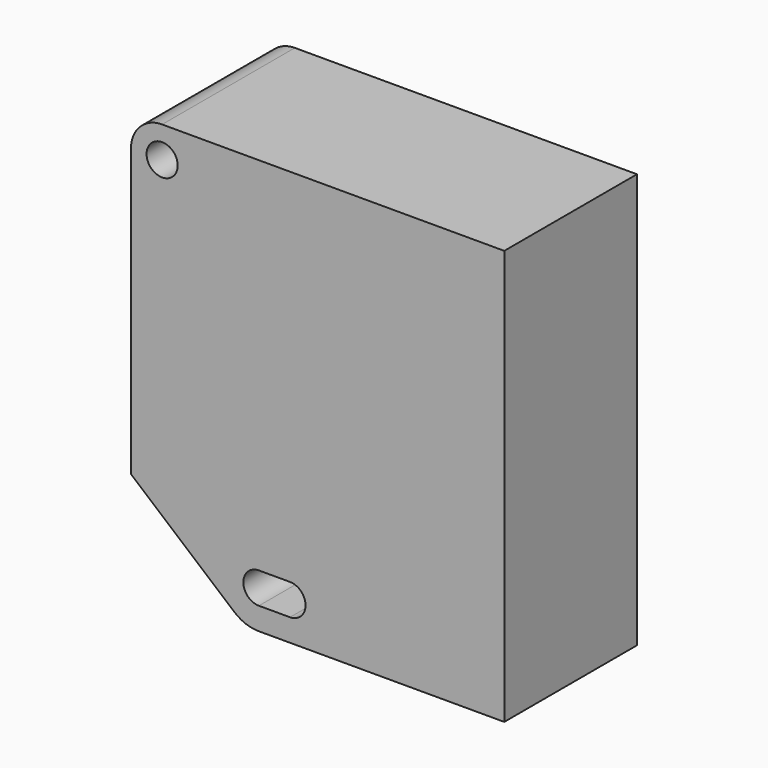
from build123d import *

# Parameters (mm, degrees)
F0_R     = 2.25
F1_DEPTH = 24


with BuildPart() as f1:
    # F0 (on Front) → F1 (new body)
    with BuildSketch(Plane.XZ):
        with BuildLine():
            Line((33.560269, 35.227125), (-15.939731, 35.227125))
            ThreePointArc((-15.939731, 35.227125), (-19.121711, 33.909105), (-20.439731, 30.727125))
            Line((-20.439731, 30.727125), (-20.439731, -10.772875))
            Line((-20.439731, -10.772875), (-18.189731, -12.684385))
            Line((-18.189731, -12.684385), (-6.439731, -22.666711))
            Line((-6.439731, -22.666711), (-5.500725, -23.464452))
            ThreePointArc((-5.500725, -23.464452), (-7.102272, -17.375993), (-1.939731, -13.772875))
            Line((-1.939731, -13.772875), (2.560269, -13.772875))
            ThreePointArc((2.560269, -13.772875), (8.060269, -19.272875), (2.560269, -24.772875))
            Line((2.560269, -24.772875), (33.560269, -24.772875))
            Line((33.560269, -24.772875), (33.560269, 35.227125))
        make_face()
        with Locations((-15.939731, 30.727125)):
            Circle(F0_R, mode=Mode.SUBTRACT)
        with BuildLine():
            Line((-1.939731, -24.772875), (2.560269, -24.772875))
            ThreePointArc((2.560269, -24.772875), (8.060269, -19.272875), (2.560269, -13.772875))
            Line((2.560269, -13.772875), (-1.939731, -13.772875))
            ThreePointArc((-1.939731, -13.772875), (-7.102272, -17.375993), (-5.500725, -23.464452))
            ThreePointArc((-5.500725, -23.464452), (-3.836613, -24.435417), (-1.939731, -24.772875))
        make_face()
        with BuildLine():
            ThreePointArc((-1.939731, -21.522875), (-4.189731, -19.272875), (-1.939731, -17.022875))
            Line((-1.939731, -17.022875), (2.560269, -17.022875))
            ThreePointArc((2.560269, -17.022875), (4.810269, -19.272875), (2.560269, -21.522875))
            Line((2.560269, -21.522875), (-1.939731, -21.522875))
        make_face(mode=Mode.SUBTRACT)
    extrude(amount=F1_DEPTH)


solid = f1.part
